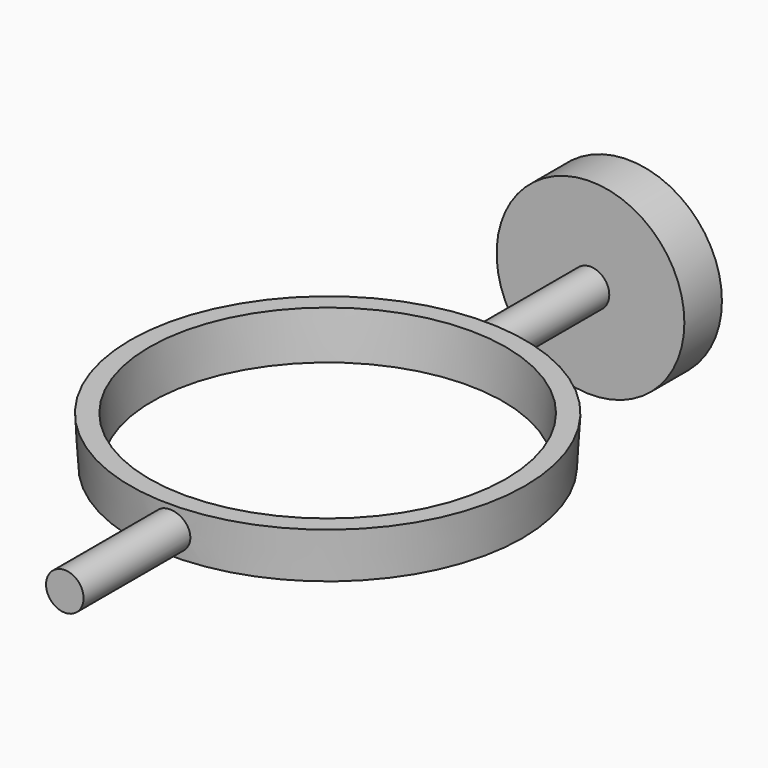
from build123d import *

# Parameters (mm, degrees)
EXTRUDE_DEPTH           = 10
EXTRUDE_PLACEMENT_ANGLE = 90
CYLINDER004_R           = 38
CYLINDER004_DEPTH       = 30
CYLINDER003_R           = 4
CYLINDER003_DEPTH       = 140
CYLINDER005_R           = 20
CYLINDER005_DEPTH       = 10
CYLINDER_R              = 46
CYLINDER_DEPTH          = 60


with BuildPart() as extrude_body:
    # path2399 → Extrude (new body)
    with BuildSketch(Plane(origin=(8.682374, 337.01873, 81), x_dir=(0, 1, 0), z_dir=(0, 0, 1))):
        with BuildLine():
            add(Edge.make_bspline(
                [(-1.415579, 5.024931), (-1.938341, -2.484397)],
                knots=[0, 0, 7.527502, 7.527502], degree=1))
            add(Edge.make_bspline(
                [(-1.938341, -2.484397), (-1.938341, -2.484397), (-2.134903, -2.858259), (-2.273136, -3.334737)],
                knots=[0, 0, 0, 0, 1, 1, 1, 1], degree=3))
            add(Edge.make_bspline(
                [(-2.273136, -3.334737), (-2.411369, -3.811216), (-2.443203, -4.128926), (-2.371685, -4.540758)],
                knots=[0, 0, 0, 0, 1, 1, 1, 1], degree=3))
            add(Edge.make_bspline(
                [(-2.371685, -4.540758), (-2.300167, -4.952591), (-2.218933, -5.672599), (-1.772797, -6.040394)],
                knots=[0, 0, 0, 0, 1, 1, 1, 1], degree=3))
            add(Edge.make_bspline(
                [(-1.772797, -6.040394), (-1.326661, -6.40819), (-0.861351, -6.572675), (-0.583202, -6.662312)],
                knots=[0, 0, 0, 0, 1, 1, 1, 1], degree=3))
            add(Edge.make_bspline(
                [(-0.583202, -6.662312), (-0.305053, -6.751952), (0.507781, -6.731952), (0.709843, -6.630052)],
                knots=[0, 0, 0, 0, 1, 1, 1, 1], degree=3))
            add(Edge.make_bspline(
                [(0.709843, -6.630052), (0.911905, -6.52815), (1.481843, -6.245909), (1.726833, -5.892641)],
                knots=[0, 0, 0, 0, 1, 1, 1, 1], degree=3))
            add(Edge.make_bspline(
                [(1.726833, -5.892641), (1.971823, -5.539373), (2.340182, -5.059724), (2.384256, -4.759981)],
                knots=[0, 0, 0, 0, 1, 1, 1, 1], degree=3))
            add(Edge.make_bspline(
                [(2.384256, -4.759981), (2.42833, -4.460237), (2.223091, -3.691858), (2.158411, -3.465999)],
                knots=[0, 0, 0, 0, 1, 1, 1, 1], degree=3))
            add(Edge.make_bspline(
                [(2.158411, -3.465999), (2.093732, -3.240141), (1.863634, -2.929328), (1.863634, -2.929328)],
                knots=[0, 0, 0, 0, 1, 1, 1, 1], degree=3))
            add(Edge.make_bspline(
                [(1.863634, -2.929328), (1.423808, 5.709855)],
                knots=[0, 0, 8.650371, 8.650371], degree=1))
            add(Edge.make_bspline(
                [(1.423808, 5.709855), (1.423808, 5.709855), (1.246198, 6.226563), (0.794563, 6.495307)],
                knots=[0, 0, 0, 0, 1, 1, 1, 1], degree=3))
            add(Edge.make_bspline(
                [(0.794563, 6.495307), (0.342929, 6.764051), (-0.057622, 6.753041), (-0.37358, 6.666974)],
                knots=[0, 0, 0, 0, 1, 1, 1, 1], degree=3))
            add(Edge.make_bspline(
                [(-0.37358, 6.666974), (-0.689538, 6.580907), (-1.208145, 6.230265), (-1.306201, 5.897514)],
                knots=[0, 0, 0, 0, 1, 1, 1, 1], degree=3))
            add(Edge.make_bspline(
                [(-1.306201, 5.897514), (-1.404257, 5.564763), (-1.415579, 5.024931), (-1.415579, 5.024931)],
                knots=[0, 0, 0, 0, 1, 1, 1, 1], degree=3))
        make_face()
    extrude(amount=EXTRUDE_DEPTH)


with BuildPart() as extrude_body_1:
    # Extrude placement: moved
    add(extrude_body.part.moved(Location((-13, -4, 402))).rotate(Axis((-13, -4, 402), (-1, 0, 0)), EXTRUDE_PLACEMENT_ANGLE))


with BuildPart() as cylinder004:
    # Cylinder004 → Cylinder004 (new body)
    with BuildSketch(Plane.XY.offset(56)):
        Circle(CYLINDER004_R)
    extrude(amount=CYLINDER004_DEPTH)


with BuildPart() as cut:
    # Cylinder003 → Cylinder003 (new body)
    with BuildSketch(Plane(origin=(0, 70, 65), x_dir=(1, 0, 0), z_dir=(0, -1, 0))):
        Circle(CYLINDER003_R)
    extrude(amount=CYLINDER003_DEPTH)

    # Cut: cut Cylinder004
    add(cylinder004.part, mode=Mode.SUBTRACT)


with BuildPart() as cut001:
    # Cylinder005 → Cylinder005 (new body)
    with BuildSketch(Plane(origin=(0, 80, 65), x_dir=(1, 0, 0), z_dir=(0, -1, 0))):
        Circle(CYLINDER005_R)
    extrude(amount=CYLINDER005_DEPTH)

    # Fusion: union Cut
    add(cut.part)

    # Cut001: cut Extrude body
    add(extrude_body_1.part, mode=Mode.SUBTRACT)


with BuildPart() as cylinder:
    # Cylinder → Cylinder (new body)
    with BuildSketch(Plane.XY):
        Circle(CYLINDER_R)
    extrude(amount=CYLINDER_DEPTH)


with BuildPart() as fusion001:
    # Sketch → Revolve (revolve)
    with BuildSketch(Plane.XZ):
        Polygon((0, 1), (34, 1), (38, 70), (42.057971, 70), (38, 0), (0, 0), align=None)
    revolve(axis=Axis((0, 0, 0), (0, 0, 1)))

    # Cut002: cut Cylinder
    add(cylinder.part, mode=Mode.SUBTRACT)

    # Fusion001: union Cut001
    add(cut001.part)


solid = fusion001.part
